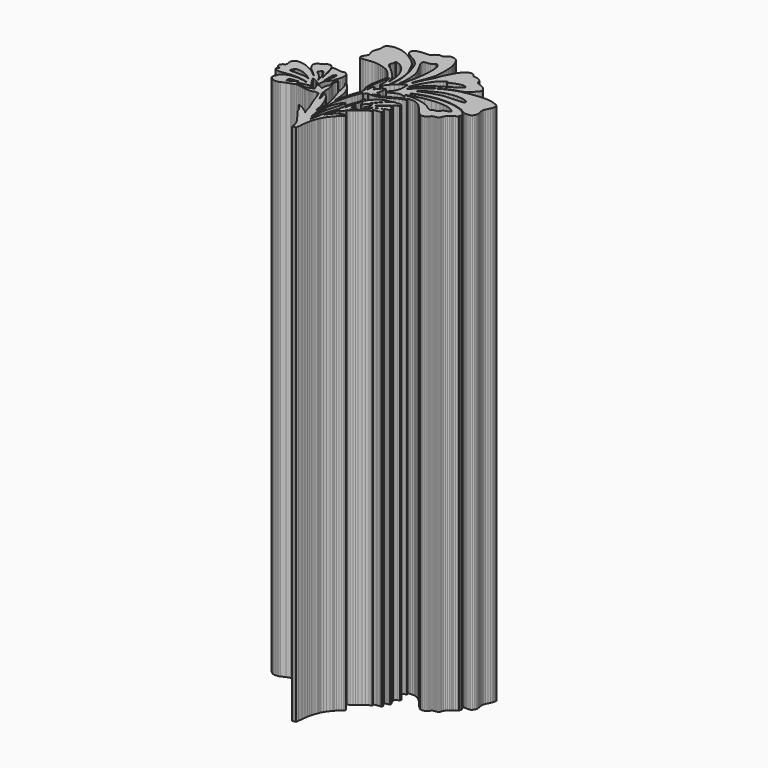
from build123d import *

# Parameters (mm, degrees)
F1_DEPTH = 25


with BuildPart() as f1:
    # F0 (on Top) → F1 (new body)
    with BuildSketch(Plane.XY):
        Polygon((-2.549371, -4.9955), (-2.532291, -5.09013), (-2.518611, -5.19907), (-2.476511, -5.19293), (-2.434251, -5.1867), (-2.391611, -5.18052), (-2.348851, -5.17428), (-2.335551, -5.04445), (-2.315821, -4.85456), (-2.298671, -4.70406), (-2.282501, -4.58421), (-2.265471, -4.48639), (-2.245931, -4.40192), (-2.222071, -4.32217), (-2.192171, -4.2385), (-2.154511, -4.14232), (-2.139871, -4.10559), (-2.124511, -4.06718), (-2.110361, -4.03159), (-2.099071, -4.00343), (-2.055441, -3.9221), (-1.985961, -3.81793), (-1.909671, -3.71767), (-1.845541, -3.6479), (-1.819551, -3.6191), (-1.792321, -3.58122), (-1.747011, -3.52247), (-1.681971, -3.45238), (-1.612731, -3.38672), (-1.555071, -3.34138), (-1.521971, -3.31674), (-1.500601, -3.29342), (-1.491601, -3.27209), (-1.495441, -3.25354), (-1.522901, -3.24436), (-1.576931, -3.24334), (-1.640251, -3.24963), (-1.695481, -3.26249), (-1.811041, -3.31956), (-1.925731, -3.40496), (-2.025661, -3.50646), (-2.096851, -3.61193), (-2.108891, -3.63493), (-2.119901, -3.65463), (-2.128691, -3.66891), (-2.134011, -3.67568), (-2.143401, -3.6861), (-2.154961, -3.70346), (-2.161681, -3.7141), (-2.164721, -3.71627), (-2.164501, -3.70921), (-2.161351, -3.69234), (-2.095221, -3.42856), (-2.013031, -3.22185), (-1.946891, -3.0899), (-1.900661, -3.08367), (-1.859651, -3.07179), (-1.826231, -3.0516), (-1.802251, -3.02204), (-1.777831, -2.98113), (-1.758901, -2.93979), (-1.751191, -2.90903), (-1.737101, -2.89232), (-1.700731, -2.87567), (-1.631831, -2.84332), (-1.548071, -2.79064), (-1.464361, -2.72793), (-1.395511, -2.66532), (-1.287161, -2.5617), (-1.181151, -2.47907), (-1.082901, -2.42118), (-0.998001, -2.39184), (-0.965661, -2.38131), (-0.946181, -2.3652), (-0.941361, -2.34588), (-0.952581, -2.3257), (-0.976181, -2.31311), (-1.013681, -2.31479), (-1.045621, -2.31707), (-1.056601, -2.30996), (-1.051821, -2.29792), (-1.039501, -2.29525), (-1.009391, -2.2881), (-0.966041, -2.27746), (-0.913961, -2.26456), (-0.856891, -2.25153), (-0.800401, -2.24095), (-0.750871, -2.23385), (-0.714531, -2.23124), (-0.671121, -2.22913), (-0.643981, -2.22071), (-0.627761, -2.20264), (-0.617141, -2.17172), (-0.616481, -2.14096), (-0.638461, -2.11302), (-0.659891, -2.08481), (-0.667711, -2.05492), (-0.675351, -2.02524), (-0.695691, -1.99768), (-0.712191, -1.98352), (-0.725751, -1.9775), (-0.741651, -1.97864), (-0.765141, -1.98618), (-0.790041, -1.9967), (-0.827101, -2.01456), (-0.871321, -2.03711), (-0.917711, -2.06207), (-1.006731, -2.11102), (-1.077971, -2.15035), (-1.133731, -2.18127), (-1.176221, -2.20514), (-1.207791, -2.22315), (-1.230641, -2.23672), (-1.247011, -2.24697), (-1.259221, -2.25532), (-1.280931, -2.26743), (-1.289931, -2.26585), (-1.272251, -2.24572), (-1.224071, -2.21197), (-1.153111, -2.16874), (-1.066851, -2.12013), (-0.972931, -2.07032), (-0.878911, -2.02345), (-0.792321, -1.98368), (-0.720821, -1.95509), (-0.678611, -1.9412), (-0.635151, -1.92878), (-0.595711, -1.91906), (-0.565261, -1.91353), (-0.522571, -1.9061), (-0.496101, -1.89563), (-0.482641, -1.88), (-0.478851, -1.85711), (-0.483941, -1.82527), (-0.498261, -1.7951), (-0.520571, -1.76861), (-0.549431, -1.748), (-0.578721, -1.72728), (-0.578071, -1.70759), (-0.567711, -1.67634), (-0.568731, -1.64449), (-0.580791, -1.61384), (-0.603361, -1.58628), (-0.639001, -1.55372), (-0.667261, -1.57938), (-0.742621, -1.64611), (-0.823191, -1.71447), (-0.905221, -1.78153), (-0.984821, -1.84425), (-1.058111, -1.89964), (-1.121211, -1.94478), (-1.170301, -1.97663), (-1.201501, -1.99225), (-1.207471, -1.99236), (-1.203401, -1.98639), (-1.190431, -1.97549), (-1.169601, -1.96057), (-1.137431, -1.93729), (-1.093641, -1.9036), (-1.043941, -1.864), (-0.994101, -1.82303), (-0.887041, -1.73395), (-0.793941, -1.65795), (-0.713821, -1.59414), (-0.645511, -1.54178), (-0.588111, -1.50011), (-0.540421, -1.46827), (-0.501531, -1.44554), (-0.470221, -1.43117), (-0.410211, -1.39622), (-0.389931, -1.35254), (-0.395231, -1.33079), (-0.409831, -1.31143), (-0.431861, -1.29503), (-0.459421, -1.28233), (-0.490671, -1.27383), (-0.523601, -1.27053), (-0.556431, -1.27293), (-0.587191, -1.28173), (-0.632871, -1.29293), (-0.690821, -1.29133), (-0.727051, -1.28863), (-0.756141, -1.29133), (-0.787221, -1.30163), (-0.829481, -1.32129), (-0.870781, -1.34431), (-0.912981, -1.37397), (-0.958071, -1.41222), (-1.007981, -1.46111), (-1.064571, -1.52264), (-1.129891, -1.59875), (-1.205731, -1.69147), (-1.294051, -1.80279), (-1.333871, -1.85325), (-1.367731, -1.89552), (-1.395781, -1.92986), (-1.418251, -1.95656), (-1.435331, -1.97577), (-1.447321, -1.98781), (-1.454321, -1.99291), (-1.456601, -1.99134), (-1.453781, -1.9832), (-1.446031, -1.96892), (-1.434511, -1.95047), (-1.420471, -1.92986), (-1.399901, -1.901), (-1.376581, -1.86877), (-1.351891, -1.83509), (-1.327261, -1.80166), (-1.304101, -1.77052), (-1.283641, -1.74334), (-1.267361, -1.72213), (-1.256621, -1.70867), (-1.244901, -1.69446), (-1.225321, -1.67064), (-1.200641, -1.64042), (-1.173461, -1.60721), (-1.140301, -1.56815), (-1.099011, -1.52214), (-1.054961, -1.47495), (-1.013351, -1.43225), (-0.919711, -1.33882), (-0.987411, -1.34588), (-1.123151, -1.37675), (-1.273281, -1.44088), (-1.316461, -1.46638), (-1.363291, -1.50088), (-1.417541, -1.54738), (-1.482861, -1.60889), (-1.550791, -1.67645), (-1.597281, -1.72788), (-1.629781, -1.77225), (-1.655871, -1.8187), (-1.697111, -1.90061), (-1.729651, -1.85049), (-1.756081, -1.8092), (-1.773981, -1.78045), (-1.787651, -1.7677), (-1.804641, -1.76781), (-1.814291, -1.77464), (-1.819011, -1.78967), (-1.819551, -1.81859), (-1.816511, -1.86703), (-1.813971, -1.9762), (-1.825531, -2.07889), (-1.853731, -2.18849), (-1.901101, -2.31842), (-1.929471, -2.39281), (-1.956221, -2.46936), (-1.978411, -2.53907), (-1.992941, -2.593), (-2.005001, -2.64986), (-2.010211, -2.68886), (-2.009171, -2.71979), (-2.002391, -2.75239), (-1.995181, -2.78409), (-1.994301, -2.80557), (-2.000931, -2.82456), (-2.016111, -2.8487), (-2.030871, -2.87295), (-2.038531, -2.89574), (-2.040641, -2.92466), (-2.038581, -2.96735), (-2.036571, -3.0101), (-2.038731, -3.03924), (-2.046551, -3.06252), (-2.061421, -3.08763), (-2.084531, -3.13174), (-2.100481, -3.17796), (-2.107431, -3.20438), (-2.118161, -3.241), (-2.131291, -3.28306), (-2.145351, -3.3257), (-2.180831, -3.43886), (-2.214621, -3.56272), (-2.243161, -3.68268), (-2.262541, -3.7842), (-2.269801, -3.82928), (-2.278431, -3.88043), (-2.287281, -3.93132), (-2.295301, -3.97566), (-2.314831, -4.08102), (-2.336911, -4.20172), (-2.349121, -4.2651), (-2.358031, -4.30134), (-2.364801, -4.31414), (-2.370611, -4.30731), (-2.376791, -4.271), (-2.382391, -4.20227), (-2.387101, -4.1102), (-2.390731, -4.00381), (-2.393071, -3.89215), (-2.393781, -3.78429), (-2.392691, -3.68935), (-2.389481, -3.61639), (-2.378801, -3.49025), (-2.364581, -3.39432), (-2.341211, -3.29906), (-2.302681, -3.17492), (-2.261831, -3.04043), (-2.226941, -2.91), (-2.200301, -2.79271), (-2.184191, -2.69788), (-2.179101, -2.66857), (-2.170681, -2.63396), (-2.160161, -2.59838), (-2.148711, -2.5662), (-2.133791, -2.52675), (-2.127761, -2.50332), (-2.129941, -2.48906), (-2.139601, -2.47728), (-2.151321, -2.46877), (-2.163851, -2.47093), (-2.182781, -2.48699), (-2.213481, -2.52014), (-2.286141, -2.62338), (-2.354391, -2.76227), (-2.412331, -2.92275), (-2.454051, -3.09084), (-2.463871, -3.15778), (-2.469401, -3.2467), (-2.471511, -3.38304), (-2.471141, -3.59235), (-2.469351, -3.76852), (-2.466151, -3.90615), (-2.461541, -4.00289), (-2.455681, -4.05649), (-2.448301, -4.10379), (-2.449221, -4.12756), (-2.455351, -4.12784), (-2.460461, -4.11893), (-2.474401, -4.06278), (-2.489531, -3.99149), (-2.503151, -3.91891), (-2.512431, -3.859), (-2.523111, -3.78284), (-2.534891, -3.709), (-2.539391, -3.65491), (-2.541891, -3.56278), (-2.542541, -3.44288), (-2.541511, -3.30552), (-2.538851, -3.16093), (-2.534781, -3.01943), (-2.529401, -2.89128), (-2.522851, -2.78679), (-2.499851, -2.59246), (-2.459101, -2.3857), (-2.397411, -2.1522), (-2.311361, -1.87784), (-2.271651, -1.75907), (-2.238721, -1.66386), (-2.211601, -1.58975), (-2.189231, -1.53435), (-2.170581, -1.49541), (-2.154681, -1.47056), (-2.140411, -1.45731), (-2.126791, -1.45346), (-2.096511, -1.44853), (-2.065221, -1.43459), (-2.035161, -1.41299), (-2.008621, -1.38515), (-1.980901, -1.34972), (-1.921391, -1.36671), (-1.853191, -1.37636), (-1.762601, -1.37616), (-1.664121, -1.36677), (-1.572211, -1.34907), (-1.466361, -1.31363), (-1.341041, -1.26013), (-1.218601, -1.19893), (-1.121261, -1.14043), (-1.096731, -1.12543), (-1.051871, -1.10013), (-0.993111, -1.06783), (-0.926821, -1.03243), (-0.808051, -0.97343), (-0.699391, -0.92743), (-0.609371, -0.89743), (-0.546281, -0.88673), (-0.519691, -0.88143), (-0.499851, -0.86863), (-0.493441, -0.85783), (-0.494901, -0.84723), (-0.505911, -0.83333), (-0.528111, -0.81313), (-0.557141, -0.78503), (-0.566141, -0.77043), (-0.553551, -0.76723), (-0.523051, -0.76273), (-0.479331, -0.75753), (-0.426871, -0.75203), (-0.323361, -0.74613), (-0.237731, -0.75303), (-0.155931, -0.77513), (-0.063691, -0.81503), (0.022779, -0.87133), (0.126029, -0.95973), (0.230309, -1.06553), (0.320099, -1.17423), (0.444169, -1.32721), (0.554519, -1.43192), (0.574599, -1.44777), (0.592329, -1.46279), (0.605789, -1.47527), (0.613109, -1.48352), (0.623419, -1.49139), (0.636219, -1.49143), (0.655059, -1.49074), (0.680169, -1.49709), (0.719019, -1.50224), (0.772399, -1.49649), (0.832629, -1.48135), (0.892089, -1.45813), (0.922199, -1.44202), (0.944339, -1.42466), (0.962559, -1.40186), (0.981169, -1.36953), (0.995059, -1.34457), (1.008789, -1.32461), (1.023819, -1.30873), (1.041389, -1.29633), (1.062989, -1.28633), (1.089949, -1.27823), (1.123699, -1.27113), (1.165629, -1.26413), (1.204699, -1.25733), (1.241269, -1.24943), (1.271269, -1.24163), (1.290589, -1.23463), (1.312499, -1.21783), (1.331539, -1.19083), (1.347489, -1.15403), (1.360069, -1.10783), (1.382749, -1.05213), (1.424899, -0.98423), (1.476129, -0.91893), (1.525989, -0.87123), (1.552999, -0.85223), (1.586099, -0.83093), (1.621039, -0.80983), (1.653749, -0.79163), (1.721629, -0.75253), (1.778529, -0.71423), (1.816289, -0.68293), (1.826649, -0.66453), (1.827139, -0.64743), (1.837399, -0.62103), (1.854429, -0.55213), (1.837519, -0.47983), (1.787209, -0.40573), (1.704529, -0.33173), (1.666449, -0.30423), (1.628629, -0.27833), (1.595429, -0.25683), (1.571179, -0.24273), (1.447149, -0.19293), (1.280809, -0.14503), (1.092989, -0.10433), (0.904519, -0.07593), (0.770839, -0.06703), (0.611319, -0.06513), (0.455999, -0.06983), (0.335019, -0.08093), (0.017849, -0.13613), (-0.223261, -0.19343), (-0.312721, -0.22073), (-0.398821, -0.25103), (-0.500711, -0.29153), (-0.637691, -0.34953), (-0.694831, -0.37383), (-0.723421, -0.38403), (-0.733291, -0.38253), (-0.734371, -0.37133), (-0.719571, -0.35613), (-0.671821, -0.33023), (-0.586101, -0.29133), (-0.457531, -0.23683), (-0.300621, -0.18273), (-0.097551, -0.12933), (0.132149, -0.08123), (0.369199, -0.04303), (0.478829, -0.03453), (0.622239, -0.03163), (0.770949, -0.03443), (0.896579, -0.04283), (1.134969, -0.07843), (1.354319, -0.13003), (1.536129, -0.19243), (1.662109, -0.26023), (1.690319, -0.27903), (1.708599, -0.28683), (1.717449, -0.28963), (1.733389, -0.29733), (1.754219, -0.30873), (1.777609, -0.32283), (1.796599, -0.33433), (1.812819, -0.34313), (1.828129, -0.34953), (1.844459, -0.35393), (1.863769, -0.35663), (1.887959, -0.35813), (1.919059, -0.35873), (1.958929, -0.35893), (2.056699, -0.35503), (2.122819, -0.33883), (2.171929, -0.30403), (2.218419, -0.24413), (2.250809, -0.18693), (2.264919, -0.13173), (2.262039, -0.06413), (2.243379, 0.02987), (2.234749, 0.07347), (2.227699, 0.12167), (2.222929, 0.16857), (2.221179, 0.20847), (2.222769, 0.25917), (2.232899, 0.30447), (2.259379, 0.36767), (2.310169, 0.47187), (2.353399, 0.56207), (2.382919, 0.63067), (2.401589, 0.68467), (2.412209, 0.73147), (2.418519, 0.77447), (2.419859, 0.80247), (2.415849, 0.82207), (2.406139, 0.84007), (2.365779, 0.88207), (2.303329, 0.92157), (2.222379, 0.95747), (2.126249, 0.98887), (2.018499, 1.01477), (1.902559, 1.03417), (1.781899, 1.04617), (1.660039, 1.04977), (1.562649, 1.04657), (1.450849, 1.03877), (1.330129, 1.02707), (1.205999, 1.01227), (1.083989, 0.99507), (0.969609, 0.97627), (0.868379, 0.95637), (0.785859, 0.93617), (0.756609, 0.92857), (0.731929, 0.92297), (0.714399, 0.92007), (0.706649, 0.92037), (0.690099, 0.92087), (0.653039, 0.91347), (0.599649, 0.89947), (0.534069, 0.88007), (0.460449, 0.85657), (0.382809, 0.83027), (0.305389, 0.80237), (0.232309, 0.77417), (0.064829, 0.70017), (-0.103411, 0.61237), (-0.270031, 0.51287), (-0.432461, 0.40327), (-0.588221, 0.28527), (-0.734861, 0.16077), (-0.869901, 0.03157), (-0.990781, -0.10063), (-1.027181, -0.14273), (-1.058111, -0.17713), (-1.080401, -0.20043), (-1.090721, -0.20903), (-1.098101, -0.20453), (-1.104441, -0.19393), (-1.100581, -0.18123), (-1.085181, -0.15813), (-1.060331, -0.12723), (-1.027941, -0.09113), (-0.995981, -0.05663), (-0.969791, -0.02733), (-0.952041, -0.00653), (-0.945531, 0.00277), (-0.931861, 0.01897), (-0.895031, 0.05487), (-0.841641, 0.10477), (-0.778051, 0.16277), (-0.710721, 0.22317), (-0.646221, 0.27997), (-0.590821, 0.32747), (-0.551051, 0.35977), (-0.370721, 0.48727), (-0.173121, 0.60887), (0.029669, 0.71767), (0.225809, 0.80687), (0.316829, 0.84307), (0.398969, 0.87237), (0.491809, 0.90157), (0.614959, 0.93707), (0.643819, 0.94537), (0.666179, 0.95207), (0.683859, 0.95827), (0.698889, 0.96487), (0.713269, 0.97307), (0.728949, 0.98367), (0.747879, 0.99777), (0.772129, 1.01627), (0.800609, 1.03807), (0.837889, 1.06597), (0.879069, 1.09677), (0.919429, 1.12667), (0.993919, 1.18797), (1.069449, 1.26067), (1.135959, 1.33447), (1.183639, 1.39917), (1.203069, 1.44137), (1.208769, 1.48297), (1.200569, 1.52547), (1.178489, 1.56977), (1.119139, 1.64997), (1.050179, 1.70967), (0.955999, 1.75887), (0.821289, 1.80807), (0.747449, 1.83667), (0.699429, 1.86697), (0.673449, 1.90237), (0.665629, 1.94617), (0.660429, 1.99317), (0.642739, 2.03137), (0.609429, 2.06557), (0.557239, 2.10017), (0.496789, 2.13277), (0.445099, 2.15367), (0.390399, 2.16637), (0.321179, 2.17467), (0.237849, 2.18217), (0.204529, 2.23377), (0.148269, 2.29277), (0.075949, 2.32727), (-0.004351, 2.33517), (-0.084371, 2.31397), (-0.145681, 2.27447), (-0.224551, 2.20977), (-0.305011, 2.13377), (-0.371101, 2.06077), (-0.401971, 2.01547), (-0.445801, 1.94197), (-0.497831, 1.84937), (-0.553221, 1.74687), (-0.607151, 1.64347), (-0.654851, 1.54817), (-0.691411, 1.47027), (-0.712031, 1.41877), (-0.754551, 1.29857), (-0.808541, 1.17007), (-0.869961, 1.04227), (-0.934681, 0.92427), (-0.956931, 0.88597), (-0.976181, 0.85137), (-0.990401, 0.82427), (-0.997571, 0.80857), (-1.004551, 0.79167), (-1.018291, 0.76147), (-1.036791, 0.72207), (-1.058111, 0.67787), (-1.081221, 0.62877), (-1.104441, 0.57597), (-1.125111, 0.52597), (-1.140511, 0.48477), (-1.160761, 0.42847), (-1.178931, 0.38187), (-1.194981, 0.34547), (-1.208551, 0.31957), (-1.219571, 0.30467), (-1.227651, 0.30097), (-1.232691, 0.30887), (-1.234371, 0.32877), (-1.220161, 0.39397), (-1.185011, 0.50147), (-1.140141, 0.61967), (-1.096901, 0.71667), (-1.059621, 0.79847), (-1.020571, 0.90347), (-0.976181, 1.04207), (-0.922901, 1.22437), (-0.898761, 1.31447), (-0.883301, 1.38837), (-0.873371, 1.46507), (-0.865721, 1.56317), (-0.860571, 1.67757), (-0.858781, 1.80227), (-0.859971, 1.93007), (-0.863931, 2.05377), (-0.870281, 2.16607), (-0.878751, 2.25997), (-0.889001, 2.32807), (-0.900661, 2.36327), (-0.907231, 2.37807), (-0.918851, 2.41027), (-0.933871, 2.45497), (-0.950581, 2.50767), (-0.983351, 2.60197), (-1.018891, 2.68057), (-1.059851, 2.74877), (-1.109001, 2.81167), (-1.134551, 2.83857), (-1.159291, 2.85567), (-1.193041, 2.86807), (-1.245611, 2.88037), (-1.348531, 2.89907), (-1.421281, 2.89637), (-1.487411, 2.86697), (-1.570641, 2.80527), (-1.637601, 2.75537), (-1.688691, 2.72777), (-1.733181, 2.71877), (-1.780281, 2.72467), (-1.810761, 2.73097), (-1.833331, 2.73167), (-1.854711, 2.72597), (-1.881621, 2.71317), (-1.927471, 2.68567), (-1.976731, 2.64927), (-2.026481, 2.60657), (-2.073791, 2.55947), (-2.118871, 2.51127), (-2.284941, 2.50787), (-2.438321, 2.49967), (-2.562181, 2.48027), (-2.652721, 2.45817), (-2.728791, 2.43557), (-2.779961, 2.41577), (-2.795621, 2.40237), (-2.800081, 2.38597), (-2.817651, 2.35777), (-2.838871, 2.31877), (-2.851181, 2.27407), (-2.853681, 2.22947), (-2.845371, 2.19077), (-2.801111, 2.13377), (-2.716321, 2.06127), (-2.606781, 1.98547), (-2.488391, 1.91827), (-2.451391, 1.89887), (-2.411081, 1.87627), (-2.372351, 1.85327), (-2.339961, 1.83267), (-2.309251, 1.80967), (-2.271541, 1.77807), (-2.230251, 1.74107), (-2.188861, 1.70207), (-2.150721, 1.66427), (-2.119251, 1.63097), (-2.097871, 1.60567), (-2.089961, 1.59127), (-2.081221, 1.56907), (-2.060111, 1.53247), (-2.009071, 1.42927), (-1.952211, 1.27777), (-1.896541, 1.09897), (-1.849181, 0.91327), (-1.800401, 0.67577), (-1.767641, 0.46987), (-1.750711, 0.29397), (-1.749351, 0.14657), (-1.757821, 0.03867), (-1.771541, -0.06603), (-1.788581, -0.15433), (-1.806801, -0.21353), (-1.814511, -0.22983), (-1.818471, -0.23623), (-1.819181, -0.23283), (-1.817051, -0.22013), (-1.805941, -0.14423), (-1.795961, -0.04403), (-1.787931, 0.07277), (-1.782391, 0.19787), (-1.788141, 0.45737), (-1.823511, 0.69657), (-1.846901, 0.80017), (-1.866861, 0.87647), (-1.886671, 0.93647), (-1.909401, 0.99097), (-2.000441, 1.18827), (-2.068151, 1.32897), (-2.117941, 1.42417), (-2.155171, 1.48467), (-2.206931, 1.55247), (-2.265901, 1.62127), (-2.319891, 1.67757), (-2.356611, 1.70787), (-2.371971, 1.71737), (-2.393181, 1.73237), (-2.417481, 1.75087), (-2.442051, 1.77067), (-2.468601, 1.79197), (-2.498111, 1.81447), (-2.527031, 1.83537), (-2.551711, 1.85207), (-2.579921, 1.87017), (-2.618221, 1.89487), (-2.661681, 1.92287), (-2.705141, 1.95087), (-2.917151, 2.06707), (-3.126851, 2.14287), (-3.249791, 2.16607), (-3.387211, 2.17807), (-3.518661, 2.17807), (-3.623541, 2.16497), (-3.693851, 2.14257), (-3.761011, 2.11057), (-3.817011, 2.07357), (-3.853681, 2.03617), (-3.867461, 2.01207), (-3.874681, 1.98297), (-3.877121, 1.93627), (-3.876301, 1.85867), (-3.875541, 1.77977), (-3.878321, 1.73107), (-3.886781, 1.69717), (-3.902941, 1.66287), (-3.953231, 1.54207), (-3.975801, 1.42697), (-3.970331, 1.32297), (-3.936361, 1.23527), (-3.903261, 1.16787), (-3.899641, 1.10567), (-3.928611, 1.03257), (-3.993111, 0.93237), (-4.022851, 0.88287), (-4.039501, 0.83747), (-4.043191, 0.79567), (-4.034071, 0.75697), (-4.022421, 0.73557), (-4.005481, 0.71967), (-3.980421, 0.70927), (-3.944231, 0.70387), (-3.894041, 0.70347), (-3.826871, 0.70777), (-3.739801, 0.71667), (-3.629941, 0.72987), (-3.461101, 0.74897), (-3.337791, 0.75617), (-3.237411, 0.75187), (-3.137541, 0.73627), (-3.019211, 0.70907), (-2.894431, 0.67357), (-2.781141, 0.63547), (-2.697261, 0.60027), (-2.634611, 0.56477), (-2.576281, 0.52097), (-2.510861, 0.45927), (-2.426871, 0.36987), (-2.330621, 0.26067), (-2.267801, 0.18007), (-2.233681, 0.12127), (-2.223301, 0.07707), (-2.225861, 0.03617), (-2.232971, -0.02443), (-2.244041, -0.10093), (-2.258411, -0.18953), (-2.275391, -0.28623), (-2.294431, -0.38723), (-2.314781, -0.48873), (-2.335781, -0.58673), (-2.347661, -0.64703), (-2.354051, -0.70243), (-2.355851, -0.76673), (-2.353961, -0.85343), (-2.347071, -0.96863), (-2.333721, -1.05053), (-2.311421, -1.10883), (-2.277781, -1.15283), (-2.259931, -1.17203), (-2.251681, -1.18863), (-2.251361, -1.21003), (-2.257051, -1.24413), (-2.264651, -1.30233), (-2.266821, -1.359), (-2.272681, -1.41711), (-2.295621, -1.48124), (-2.333221, -1.57353), (-2.373151, -1.68778), (-2.409291, -1.80497), (-2.435391, -1.90627), (-2.445861, -1.95124), (-2.457681, -1.99763), (-2.469511, -2.04), (-2.479821, -2.07293), (-2.504401, -2.15974), (-2.533371, -2.28235), (-2.559251, -2.40718), (-2.574541, -2.50067), (-2.582191, -2.54347), (-2.590871, -2.56272), (-2.598101, -2.55622), (-2.601031, -2.52188), (-2.606721, -2.42096), (-2.620821, -2.27572), (-2.638891, -2.12647), (-2.656531, -2.01357), (-2.708931, -1.80904), (-2.781041, -1.62903), (-2.873651, -1.47196), (-2.987531, -1.33617), (-3.024641, -1.30263), (-3.061791, -1.27553), (-3.096081, -1.25553), (-3.124511, -1.24363), (-3.144151, -1.24083), (-3.152121, -1.24793), (-3.145461, -1.26573), (-3.121211, -1.29533), (-3.061581, -1.37143), (-3.016111, -1.46425), (-2.980581, -1.58497), (-2.950791, -1.74464), (-2.940601, -1.80697), (-2.929691, -1.86406), (-2.917051, -1.9195), (-2.901691, -1.97695), (-2.882481, -2.04016), (-2.858401, -2.11275), (-2.828351, -2.19847), (-2.791291, -2.30096), (-2.712621, -2.54016), (-2.656301, -2.76688), (-2.646001, -2.83102), (-2.639971, -2.91678), (-2.637151, -3.04982), (-2.636461, -3.25582), (-2.637151, -3.43197), (-2.639051, -3.54379), (-2.642361, -3.59577), (-2.647191, -3.59235), (-2.676331, -3.44836), (-2.707791, -3.30703), (-2.736001, -3.19239), (-2.755321, -3.12854), (-2.765511, -3.10266), (-2.778371, -3.06734), (-2.792261, -3.02714), (-2.805501, -2.98678), (-2.866481, -2.82884), (-2.944931, -2.67829), (-3.035051, -2.54488), (-3.130971, -2.43838), (-3.164871, -2.41017), (-3.192281, -2.39384), (-3.212681, -2.38885), (-3.225751, -2.39471), (-3.231071, -2.41093), (-3.228141, -2.43692), (-3.216641, -2.47224), (-3.196031, -2.51639), (-3.168031, -2.58042), (-3.145031, -2.65263), (-3.129401, -2.72435), (-3.123481, -2.78679), (-3.124191, -2.80692), (-3.128211, -2.8099), (-3.138461, -2.79292), (-3.157661, -2.75343), (-3.172691, -2.72099), (-3.188151, -2.6861), (-3.202321, -2.65289), (-3.213281, -2.62567), (-3.225861, -2.59707), (-3.244191, -2.56039), (-3.265961, -2.52035), (-3.288581, -2.48161), (-3.316681, -2.43393), (-3.331651, -2.40246), (-3.336101, -2.38), (-3.332621, -2.35939), (-3.327971, -2.32596), (-3.329711, -2.28609), (-3.337031, -2.2466), (-3.349181, -2.21459), (-3.353851, -2.19853), (-3.357041, -2.17167), (-3.358681, -2.13706), (-3.358351, -2.09789), (-3.372891, -1.91965), (-3.431801, -1.725), (-3.475751, -1.59377), (-3.496371, -1.48499), (-3.493501, -1.39959), (-3.467121, -1.33861), (-3.450901, -1.31203), (-3.446891, -1.28933), (-3.455141, -1.27073), (-3.475581, -1.25623), (-3.505971, -1.24553), (-3.534781, -1.24383), (-3.566251, -1.25173), (-3.604611, -1.26963), (-3.655871, -1.29693), (-3.627181, -1.23353), (-3.577531, -1.11613), (-3.545681, -1.01923), (-3.528711, -0.93183), (-3.523551, -0.84233), (-3.526751, -0.76713), (-3.538141, -0.71043), (-3.559901, -0.66553), (-3.594231, -0.62543), (-3.647731, -0.58393), (-3.701121, -0.56313), (-3.755431, -0.56293), (-3.811851, -0.58303), (-3.824541, -0.58933), (-3.836371, -0.59363), (-3.849181, -0.59603), (-3.864751, -0.59633), (-3.885101, -0.59443), (-3.911941, -0.59033), (-3.947171, -0.58393), (-3.992681, -0.57523), (-4.103081, -0.55913), (-4.202211, -0.55573), (-4.255431, -0.55803), (-4.283041, -0.56223), (-4.293291, -0.57083), (-4.294281, -0.58673), (-4.289821, -0.61143), (-4.278431, -0.65813), (-4.261941, -0.72023), (-4.241921, -0.79093), (-4.219351, -0.87293), (-4.195581, -0.96593), (-4.173611, -1.05853), (-4.156101, -1.13923), (-4.141441, -1.20953), (-4.127071, -1.27373), (-4.114641, -1.32493), (-4.105751, -1.35592), (-4.095161, -1.38652), (-4.091041, -1.40229), (-4.092891, -1.40815), (-4.100151, -1.40903), (-4.114041, -1.39199), (-4.131731, -1.34099), (-4.153321, -1.25593), (-4.178821, -1.13673), (-4.216151, -0.97163), (-4.260641, -0.80303), (-4.303501, -0.66193), (-4.336051, -0.57933), (-4.381511, -0.51303), (-4.431601, -0.46603), (-4.486651, -0.43793), (-4.546981, -0.42863), (-4.592351, -0.43373), (-4.633031, -0.44873), (-4.667801, -0.47293), (-4.695481, -0.50563), (-4.723471, -0.53453), (-4.762151, -0.55343), (-4.824051, -0.57733), (-4.890621, -0.61143), (-4.949761, -0.64863), (-4.989431, -0.68233), (-5.034121, -0.76853), (-5.030981, -0.86933), (-4.980421, -0.98313), (-4.882931, -1.10813), (-4.848691, -1.14243), (-4.809301, -1.17823), (-4.769581, -1.21103), (-4.734481, -1.23673), (-4.695861, -1.26473), (-4.650831, -1.30103), (-4.602911, -1.34224), (-4.555781, -1.38515), (-4.512861, -1.42634), (-4.477821, -1.46252), (-4.454151, -1.4904), (-4.445481, -1.50657), (-4.453231, -1.50609), (-4.474671, -1.49079), (-4.507281, -1.46279), (-4.548291, -1.42417), (-4.654901, -1.33074), (-4.775351, -1.24313), (-4.905221, -1.16333), (-5.040261, -1.09353), (-5.176111, -1.03563), (-5.308481, -0.99163), (-5.433051, -0.96363), (-5.545471, -0.95373), (-5.640361, -0.96113), (-5.719241, -0.98313), (-5.779621, -1.01873), (-5.818851, -1.06683), (-5.835341, -1.11573), (-5.843101, -1.17603), (-5.841531, -1.23843), (-5.830241, -1.29323), (-5.819341, -1.32797), (-5.813371, -1.35652), (-5.813101, -1.38049), (-5.819341, -1.4016), (-5.833011, -1.4215), (-5.854821, -1.44185), (-5.885641, -1.46436), (-5.926219, -1.49079), (-6.002716, -1.563), (-6.01986, -1.64025), (-5.978844, -1.71464), (-5.880971, -1.77834), (-5.831981, -1.79997), (-5.865781, -1.8206), (-5.904621, -1.8557), (-5.923126, -1.89764), (-5.919981, -1.93957), (-5.893991, -1.97489), (-5.818361, -2.01271), (-5.714901, -2.0292), (-5.583551, -2.02432), (-5.424261, -1.99811), (-5.140301, -1.95921), (-4.834371, -1.96285), (-4.752611, -1.97056), (-4.667711, -1.98161), (-4.583981, -1.99513), (-4.505751, -2.01015), (-4.437391, -2.02578), (-4.383191, -2.04114), (-4.347441, -2.05524), (-4.334471, -2.06734), (-4.339731, -2.07374), (-4.353141, -2.07527), (-4.371321, -2.072), (-4.390621, -2.0642), (-4.408861, -2.05746), (-4.442501, -2.04775), (-4.486871, -2.03625), (-4.537111, -2.02432), (-4.828181, -1.99268), (-5.120391, -2.02416), (-5.261551, -2.06409), (-5.384981, -2.11421), (-5.478461, -2.16868), (-5.529571, -2.22153), (-5.540801, -2.25153), (-5.545471, -2.2805), (-5.548181, -2.2965), (-5.555401, -2.31924), (-5.566141, -2.34571), (-5.579161, -2.37289), (-5.605311, -2.43593), (-5.615241, -2.49675), (-5.617731, -2.55638), (-5.545791, -2.62154), (-5.487471, -2.66965), (-5.435501, -2.69777), (-5.376081, -2.71095), (-5.295471, -2.71436), (-5.237411, -2.71339), (-5.195481, -2.70764), (-5.153601, -2.69321), (-5.095481, -2.66624), (-4.916291, -2.58671), (-4.742851, -2.52627), (-4.704801, -2.514), (-4.672751, -2.5025), (-4.650011, -2.49302), (-4.640031, -2.48693), (-4.617081, -2.47452), (-4.570261, -2.45861), (-4.509281, -2.44695), (-4.434851, -2.44754), (-4.331871, -2.4616), (-4.185111, -2.4904), (-4.094731, -2.5082), (-4.022081, -2.51895), (-3.952971, -2.52427), (-3.873261, -2.52567), (-3.827211, -2.52552), (-3.790961, -2.52492), (-3.762321, -2.52345), (-3.739101, -2.52085), (-3.719141, -2.51667), (-3.700141, -2.5107), (-3.680071, -2.50245), (-3.656581, -2.49171), (-3.617461, -2.47413), (-3.591861, -2.46589), (-3.573621, -2.46556), (-3.556601, -2.47213), (-3.523651, -2.48227), (-3.483351, -2.48661), (-3.458821, -2.48807), (-3.438321, -2.49415), (-3.420031, -2.50771), (-3.402351, -2.53164), (-3.383571, -2.56864), (-3.361981, -2.6216), (-3.335831, -2.69336), (-3.303501, -2.78679), (-3.275661, -2.86568), (-3.242031, -2.95715), (-3.204481, -3.05638), (-3.164931, -3.15854), (-3.125281, -3.2587), (-3.087401, -3.35206), (-3.053221, -3.43377), (-3.024581, -3.49903), (-3.009331, -3.53577), (-2.992401, -3.5815), (-2.975971, -3.63049), (-2.961921, -3.67682), (-2.909121, -3.85017), (-2.866161, -3.9565), (-2.852221, -3.98895), (-2.849781, -4.00586), (-2.855691, -4.00452), (-2.867251, -3.99654), (-2.882931, -3.98325), (-2.900981, -3.96595), (-2.919761, -3.94809), (-2.937291, -3.93354), (-2.951661, -3.92368), (-2.960891, -3.9201), (-2.977371, -3.91304), (-2.996531, -3.89622), (-3.011721, -3.88185), (-3.034071, -3.86427), (-3.061641, -3.84479), (-3.092551, -3.8245), (-3.124891, -3.8047), (-3.156731, -3.78657), (-3.186211, -3.77128), (-3.211261, -3.76015), (-3.259761, -3.73672), (-3.307291, -3.70731), (-3.342941, -3.68604), (-3.370781, -3.67867), (-3.389761, -3.68507), (-3.398931, -3.70536), (-3.390851, -3.73135), (-3.354501, -3.76254), (-3.258851, -3.84724), (-3.196071, -3.94543), (-3.185071, -3.97142), (-3.176001, -3.99475), (-3.169821, -4.01286), (-3.167481, -4.02322), (-3.164661, -4.04146), (-3.155931, -4.06452), (-3.139821, -4.09436), (-3.115071, -4.13299), (-3.080301, -4.18246), (-3.034121, -4.24475), (-2.975211, -4.32189), (-2.902121, -4.41592), (-2.788581, -4.56354), (-2.707361, -4.67471), (-2.653481, -4.75652), (-2.622011, -4.8162), (-2.597821, -4.87056), (-2.572321, -4.92568), align=None)
        Polygon((-4.867621, -2.3705), (-4.919761, -2.39622), (-4.969231, -2.41359), (-5.005921, -2.42015), (-5.026801, -2.41592), (-5.028761, -2.40067), (-5.018661, -2.37268), (-5.015851, -2.35266), (-5.020511, -2.33692), (-5.032781, -2.32168), (-5.055501, -2.299), (-5.019911, -2.27714), (-4.903761, -2.23596), (-4.723261, -2.21431), (-4.595481, -2.20731), (-4.689681, -2.25967), (-4.729391, -2.28235), (-4.767751, -2.30546), (-4.800401, -2.32629), (-4.823031, -2.34218), align=None, mode=Mode.SUBTRACT)
        Polygon((-3.997781, -2.38239), (-4.053121, -2.4024), (-4.076441, -2.4094), (-4.095651, -2.41429), (-4.113181, -2.41711), (-4.131291, -2.41765), (-4.152401, -2.41597), (-4.178761, -2.41196), (-4.212731, -2.4055), (-4.256621, -2.39665), (-4.350321, -2.38282), (-4.455731, -2.37485), (-4.550571, -2.37377), (-4.612301, -2.3806), (-4.622781, -2.38157), (-4.619731, -2.37528), (-4.606071, -2.36356), (-4.584411, -2.34821), (-4.557681, -2.33117), (-4.528541, -2.31425), (-4.499851, -2.29928), (-4.474291, -2.28821), (-4.438751, -2.27763), (-4.383791, -2.2645), (-4.316851, -2.2505), (-4.245501, -2.23727), (-4.176711, -2.22527), (-4.116711, -2.21475), (-4.071941, -2.20677), (-4.048781, -2.2026), (-4.041511, -2.20059), (-4.037111, -2.19734), (-4.036031, -2.19179), (-4.038641, -2.18306), (-4.045471, -2.16999), (-4.056911, -2.15166), (-4.073401, -2.12702), (-4.095331, -2.09506), (-4.126581, -2.04857), (-4.159231, -1.998), (-4.189401, -1.94945), (-4.213161, -1.90903), (-4.234651, -1.87115), (-4.258571, -1.82977), (-4.282011, -1.78978), (-4.302031, -1.75625), (-4.324501, -1.71822), (-4.334211, -1.69734), (-4.332581, -1.6886), (-4.320971, -1.68681), (-4.281301, -1.69424), (-4.226571, -1.71236), (-4.173551, -1.73488), (-4.139111, -1.75538), (-4.120781, -1.76781), (-4.109051, -1.76889), (-4.101681, -1.76911), (-4.087401, -1.77589), (-4.068251, -1.78777), (-4.046011, -1.80339), (-4.022571, -1.82146), (-3.999731, -1.8405), (-3.979391, -1.85922), (-3.963391, -1.87625), (-3.943101, -1.89617), (-3.924051, -1.90696), (-3.907931, -1.90815), (-3.896281, -1.89916), (-3.891611, -1.87631), (-3.888731, -1.83529), (-3.883251, -1.76981), (-3.871581, -1.6976), (-3.856391, -1.63228), (-3.840281, -1.58742), (-3.828891, -1.56913), (-3.809961, -1.54325), (-3.785801, -1.51227), (-3.758571, -1.4789), (-3.730471, -1.4457), (-3.703571, -1.41532), (-3.680181, -1.39036), (-3.662331, -1.37349), (-3.648441, -1.36296), (-3.629891, -1.35077), (-3.608681, -1.3379), (-3.586601, -1.32536), (-3.565651, -1.31425), (-3.547751, -1.30563), (-3.534781, -1.30053), (-3.528601, -1.29993), (-3.530651, -1.31756), (-3.541611, -1.3539), (-3.553071, -1.41803), (-3.553331, -1.50207), (-3.543351, -1.59089), (-3.523931, -1.66934), (-3.511291, -1.70715), (-3.506791, -1.72939), (-3.510301, -1.74382), (-3.521541, -1.7582), (-3.538301, -1.77822), (-3.549481, -1.79422), (-3.563371, -1.84696), (-3.579651, -1.94017), (-3.591901, -2.03229), (-3.593751, -2.08171), (-3.592551, -2.08979), (-3.598851, -2.09078), (-3.614431, -2.08427), (-3.640961, -2.06978), (-3.690761, -2.0395), (-3.733781, -2.01053), (-3.778111, -1.9877), (-3.836541, -1.97766), (-3.880601, -1.97734), (-3.900181, -1.98704), (-3.897141, -2.01049), (-3.873371, -2.05128), (-3.848641, -2.09843), (-3.827861, -2.15322), (-3.807461, -2.20715), (-3.783471, -2.25245), (-3.767151, -2.28202), (-3.765081, -2.29824), (-3.788851, -2.3072), (-3.834371, -2.31941), (-3.892251, -2.33703), (-3.945481, -2.35928), align=None, mode=Mode.SUBTRACT)
        Polygon((-4.474231, -1.78707), (-4.467721, -1.79368), (-4.470481, -1.7965), (-4.481501, -1.79493), (-4.505101, -1.78782), (-4.545471, -1.77421), (-4.596361, -1.75765), (-4.644151, -1.74475), (-4.692931, -1.73509), (-4.746691, -1.72831), (-4.809511, -1.72397), (-4.885361, -1.7217), (-4.978301, -1.72114), (-5.092351, -1.72196), (-5.237531, -1.72272), (-5.338931, -1.72153), (-5.399961, -1.71827), (-5.423891, -1.71285), (-5.428171, -1.70417), (-5.427081, -1.69114), (-5.420361, -1.67232), (-5.407551, -1.6465), (-5.387261, -1.59756), (-5.378801, -1.55572), (-5.377391, -1.53588), (-5.371581, -1.52231), (-5.358941, -1.51184), (-5.337141, -1.50142), (-5.313541, -1.49421), (-5.280001, -1.48759), (-5.241051, -1.48221), (-5.201071, -1.4789), (-5.077431, -1.48596), (-4.942011, -1.51699), (-4.805551, -1.56881), (-4.678821, -1.63809), (-4.651531, -1.65642), (-4.619041, -1.67904), (-4.584101, -1.704), (-4.549431, -1.72928), (-4.517751, -1.75289), (-4.491801, -1.77285), align=None, mode=Mode.SUBTRACT)
        Polygon((-4.164871, -1.41689), (-4.128691, -1.54613), (-4.121971, -1.58454), (-4.117031, -1.61665), (-4.114471, -1.63911), (-4.114641, -1.6485), (-4.118981, -1.64465), (-4.127661, -1.6312), (-4.139431, -1.61014), (-4.153001, -1.58367), (-4.205301, -1.49561), (-4.272571, -1.4092), (-4.348901, -1.33134), (-4.428161, -1.26893), (-4.480361, -1.23133), (-4.516931, -1.19833), (-4.538471, -1.16923), (-4.545471, -1.14343), (-4.536511, -1.12703), (-4.514931, -1.10013), (-4.485791, -1.06593), (-4.458551, -1.03183), (-4.434681, -1.00723), (-4.411571, -0.99983), (-4.387001, -1.00943), (-4.358461, -1.03633), (-4.292431, -1.13393), (-4.223691, -1.27013), align=None, mode=Mode.SUBTRACT)
        Polygon((-3.827471, -1.38559), (-3.847221, -1.47011), (-3.862851, -1.52095), (-3.874401, -1.54922), (-3.884501, -1.55931), (-3.895571, -1.55578), (-3.903481, -1.51895), (-3.910171, -1.42861), (-3.914931, -1.29713), (-3.917151, -1.13673), (-3.917711, -1.01453), (-3.887801, -1.01113), (-3.872181, -1.00783), (-3.862581, -1.00093), (-3.857321, -0.98803), (-3.854441, -0.96663), (-3.847281, -0.93403), (-3.829151, -0.92573), (-3.806211, -0.93423), (-3.790641, -0.95973), (-3.782721, -1.00143), (-3.782551, -1.05903), (-3.792051, -1.16063), (-3.808051, -1.27593), align=None, mode=Mode.SUBTRACT)
        Polygon((-1.563321, -2.73107), (-1.607261, -2.76243), (-1.657981, -2.79445), (-1.690221, -2.813), (-1.707191, -2.81978), (-1.712141, -2.81642), (-1.708221, -2.81213), (-1.697541, -2.80329), (-1.681691, -2.79114), (-1.662331, -2.77697), (-1.643231, -2.76021), (-1.621321, -2.73639), (-1.598211, -2.70775), (-1.575641, -2.67677), (-1.555231, -2.64574), (-1.538581, -2.61709), (-1.527401, -2.59317), (-1.523281, -2.5764), (-1.529791, -2.56956), (-1.547261, -2.56804), (-1.572651, -2.57109), (-1.602921, -2.57786), (-1.635151, -2.58752), (-1.666181, -2.5994), (-1.693101, -2.61259), (-1.712851, -2.62631), (-1.723261, -2.6325), (-1.731121, -2.62479), (-1.739151, -2.59761), (-1.749791, -2.54531), (-1.756571, -2.50424), (-1.760961, -2.46561), (-1.762601, -2.4335), (-1.761181, -2.41179), (-1.759011, -2.38613), (-1.764221, -2.37567), (-1.773931, -2.38461), (-1.792601, -2.40909), (-1.817551, -2.44532), (-1.846141, -2.48954), (-1.917711, -2.60347), (-1.917211, -2.6886), (-1.917541, -2.73107), (-1.919431, -2.75424), (-1.923671, -2.76129), (-1.930721, -2.75528), (-1.945211, -2.70465), (-1.935171, -2.6197), (-1.899901, -2.49654), (-1.838391, -2.33139), (-1.798011, -2.22771), (-1.775351, -2.15909), (-1.764431, -2.10325), (-1.759281, -2.03804), (-1.755601, -1.97993), (-1.751621, -1.9495), (-1.746041, -1.94109), (-1.737361, -1.94902), (-1.707581, -1.99334), (-1.683161, -2.0387), (-1.665321, -2.08285), (-1.655111, -2.12338), (-1.645831, -2.16592), (-1.635861, -2.18974), (-1.618651, -2.19646), (-1.597331, -2.18886), (-1.574171, -2.16831), (-1.551331, -2.13629), (-1.516171, -2.09099), (-1.466641, -2.04667), (-1.409831, -2.00864), (-1.352651, -1.98232), (-1.313151, -1.96979), (-1.291611, -1.96459), (-1.289821, -1.99584), (-1.297321, -2.06782), (-1.309901, -2.14779), (-1.323191, -2.2032), (-1.337941, -2.23406), (-1.356891, -2.26493), (-1.371911, -2.28984), (-1.377821, -2.31034), (-1.374731, -2.32732), (-1.362691, -2.34192), (-1.351891, -2.34761), (-1.336751, -2.34875), (-1.314571, -2.34517), (-1.282551, -2.33671), (-1.220541, -2.32439), (-1.162481, -2.32516), (-1.115291, -2.33291), (-1.091641, -2.34186), (-1.090981, -2.35234), (-1.112791, -2.36481), (-1.165641, -2.39389), (-1.233181, -2.44293), (-1.312551, -2.50967), (-1.401041, -2.59181), (-1.453461, -2.6402), (-1.509761, -2.68849), align=None, mode=Mode.SUBTRACT)
        Polygon((-1.990671, 0.39027), (-1.962941, 0.12437), (-1.961051, 0.05877), (-1.960891, -0.00083), (-1.962401, -0.04783), (-1.965391, -0.07573), (-1.974551, -0.11453), (-1.982481, -0.07573), (-1.999511, -0.01003), (-2.026691, 0.07967), (-2.055121, 0.16517), (-2.075901, 0.21877), (-2.097281, 0.25257), (-2.125871, 0.28687), (-2.154031, 0.31357), (-2.173891, 0.32427), (-2.182231, 0.32937), (-2.195481, 0.34307), (-2.211651, 0.36347), (-2.229051, 0.38827), (-2.256621, 0.42417), (-2.298351, 0.47187), (-2.350041, 0.52687), (-2.407551, 0.58527), (-2.466531, 0.64267), (-2.522851, 0.69497), (-2.572211, 0.73787), (-2.610461, 0.76727), (-2.636941, 0.78527), (-2.664931, 0.80417), (-2.691141, 0.82197), (-2.712251, 0.83617), (-2.776971, 0.89097), (-2.812661, 0.94857), (-2.819331, 1.00877), (-2.796761, 1.07117), (-2.782831, 1.09817), (-2.773871, 1.12417), (-2.769041, 1.15247), (-2.767531, 1.18637), (-2.767041, 1.21677), (-2.765251, 1.23997), (-2.761401, 1.25707), (-2.754781, 1.26867), (-2.744641, 1.27557), (-2.730301, 1.27877), (-2.711051, 1.27887), (-2.686041, 1.27687), (-2.578891, 1.24557), (-2.460401, 1.17777), (-2.343691, 1.08257), (-2.241921, 0.96907), (-2.194981, 0.89787), (-2.142301, 0.80407), (-2.090721, 0.70077), (-2.047151, 0.60077), align=None, mode=Mode.SUBTRACT)
        Polygon((-1.503041, -1.24693), (-1.607971, -1.27923), (-1.687981, -1.29273), (-1.776321, -1.30233), (-1.839301, -1.30533), (-1.843211, -1.29893), (-1.809621, -1.29043), (-1.771001, -1.28413), (-1.736111, -1.27733), (-1.700961, -1.26573), (-1.667321, -1.25043), (-1.636941, -1.23263), (-1.611551, -1.21353), (-1.592891, -1.19413), (-1.582681, -1.17573), (-1.582681, -1.15943), (-1.596511, -1.14393), (-1.620231, -1.13103), (-1.647681, -1.12003), (-1.670361, -1.10903), (-1.692171, -1.10113), (-1.717551, -1.09793), (-1.736171, -1.09743), (-1.743541, -1.09333), (-1.740891, -1.08153), (-1.729441, -1.05793), (-1.714621, -1.01443), (-1.702041, -0.95223), (-1.693191, -0.88073), (-1.689511, -0.80903), (-1.684681, -0.74553), (-1.673831, -0.69433), (-1.665911, -0.65733), (-1.678821, -0.64663), (-1.714471, -0.66223), (-1.774411, -0.70463), (-1.841101, -0.75963), (-1.899641, -0.81603), (-1.947651, -0.87113), (-1.982581, -0.92233), (-1.999141, -0.94813), (-2.012001, -0.96193), (-2.020351, -0.96313), (-2.023281, -0.95133), (-2.026861, -0.94013), (-2.036621, -0.91953), (-2.051001, -0.89243), (-2.068581, -0.86173), (-2.090011, -0.82773), (-2.107531, -0.80463), (-2.121531, -0.79193), (-2.132481, -0.78903), (-2.152291, -0.80623), (-2.167431, -0.84813), (-2.177531, -0.91333), (-2.182141, -1.00033), (-2.183651, -1.04673), (-2.186101, -1.08483), (-2.189081, -1.11053), (-2.192281, -1.12003), (-2.207411, -1.11183), (-2.226461, -1.09083), (-2.245071, -1.06233), (-2.259121, -1.03223), (-2.272031, -0.94703), (-2.273931, -0.81733), (-2.265571, -0.67393), (-2.247671, -0.54793), (-2.203461, -0.32753), (-2.170581, -0.14423), (-2.150291, -0.00523), (-2.143661, 0.08247), (-2.141821, 0.11477), (-2.135801, 0.12697), (-2.126531, 0.12117), (-2.114861, 0.09937), (-2.101621, 0.06337), (-2.087731, 0.01537), (-2.074001, -0.04273), (-2.061251, -0.10903), (-2.048501, -0.26813), (-2.062981, -0.46073), (-2.066191, -0.49153), (-2.065261, -0.51053), (-2.059141, -0.52203), (-2.046821, -0.53053), (-2.023601, -0.53743), (-2.001041, -0.53123), (-1.985401, -0.52493), (-1.978851, -0.52663), (-1.972071, -0.52793), (-1.951391, -0.50803), (-1.916671, -0.46653), (-1.867571, -0.40333), (-1.770181, -0.28723), (-1.650781, -0.16243), (-1.531791, -0.05083), (-1.435761, 0.02497), (-1.370551, 0.06457), (-1.313261, 0.09357), (-1.270291, 0.10907), (-1.248001, 0.10827), (-1.243761, 0.08907), (-1.241261, 0.04617), (-1.240401, -0.01343), (-1.241001, -0.08303), (-1.242941, -0.15583), (-1.246151, -0.22513), (-1.250481, -0.28393), (-1.255801, -0.32573), (-1.282011, -0.41923), (-1.324111, -0.51593), (-1.377721, -0.60703), (-1.438481, -0.68403), (-1.488181, -0.73923), (-1.517641, -0.77873), (-1.530111, -0.80783), (-1.528711, -0.83163), (-1.514541, -0.84963), (-1.485901, -0.84953), (-1.438371, -0.83033), (-1.367401, -0.79073), (-1.228791, -0.71623), (-1.107481, -0.66863), (-1.002221, -0.64743), (-0.911851, -0.65243), (-0.845971, -0.67053), (-0.788791, -0.69513), (-0.737851, -0.72773), (-0.690651, -0.76943), (-0.632111, -0.82873), (-0.708221, -0.85353), (-0.745981, -0.86813), (-0.800461, -0.89213), (-0.865941, -0.92273), (-0.936531, -0.95713), (-1.006571, -0.99223), (-1.070261, -1.02533), (-1.121751, -1.05363), (-1.155221, -1.07423), (-1.256291, -1.13513), (-1.379011, -1.19583), align=None, mode=Mode.SUBTRACT)
        Polygon((0.803219, -0.86933), (0.728569, -0.90193), (0.697149, -0.91763), (0.667859, -0.93043), (0.643879, -0.93913), (0.628589, -0.94233), (0.603239, -0.93693), (0.568849, -0.91983), (0.522399, -0.88903), (0.460929, -0.84303), (0.393389, -0.79643), (0.313469, -0.75073), (0.228179, -0.70963), (0.144589, -0.67673), (0.039709, -0.64623), (-0.090071, -0.61603), (-0.222761, -0.59093), (-0.336261, -0.57543), (-0.438581, -0.57093), (-0.554961, -0.57373), (-0.667801, -0.58283), (-0.759551, -0.59733), (-0.796611, -0.60203), (-0.821181, -0.59883), (-0.818791, -0.58883), (-0.791891, -0.57253), (-0.744581, -0.55113), (-0.680721, -0.52633), (-0.604331, -0.49943), (-0.519481, -0.47203), (-0.430011, -0.44553), (-0.339961, -0.42143), (-0.067601, -0.36403), (0.237359, -0.31903), (0.427889, -0.30353), (0.622499, -0.30023), (0.807289, -0.30883), (0.968589, -0.32933), (1.109699, -0.36713), (1.233349, -0.42133), (1.321129, -0.48203), (1.354489, -0.53903), (1.347599, -0.56253), (1.326539, -0.58373), (1.290529, -0.60323), (1.238819, -0.62143), (1.205129, -0.63203), (1.171709, -0.64373), (1.142309, -0.65513), (1.120879, -0.66483), (1.086099, -0.68923), (1.043069, -0.72893), (0.999609, -0.77603), (0.963489, -0.82273), (0.951219, -0.83693), (0.935169, -0.84623), (0.911069, -0.85203), (0.874609, -0.85593), align=None, mode=Mode.SUBTRACT)
        Polygon((-0.360511, 0.05137), (-0.495501, -3e-05), (-0.553661, -0.02493), (-0.613331, -0.05173), (-0.667601, -0.07703), (-0.709371, -0.09763), (-0.740671, -0.11363), (-0.766281, -0.12643), (-0.783581, -0.13453), (-0.789931, -0.13693), (-0.781301, -0.12673), (-0.757331, -0.10633), (-0.720821, -0.07763), (-0.674691, -0.04293), (-0.621801, -0.00423), (-0.564941, 0.03627), (-0.507111, 0.07637), (-0.451011, 0.11417), (-0.237851, 0.24307), (-0.021281, 0.35047), (0.192919, 0.43397), (0.398969, 0.49097), (0.598029, 0.52257), (0.798279, 0.53457), (0.979819, 0.52687), (1.122989, 0.49917), (1.208449, 0.46727), (1.266489, 0.43437), (1.299529, 0.39877), (1.310059, 0.35867), (1.304629, 0.33927), (1.287059, 0.32297), (1.255319, 0.30967), (1.207249, 0.29897), (1.140889, 0.29037), (1.054199, 0.28367), (0.945099, 0.27847), (0.811519, 0.27437), (0.695039, 0.27097), (0.586209, 0.26657), (0.497239, 0.26177), (0.440379, 0.25727), (0.342329, 0.24177), (0.214139, 0.21587), (0.084529, 0.18587), (-0.017691, 0.15817), (-0.054581, 0.14687), (-0.105581, 0.13157), (-0.164121, 0.11407), (-0.223261, 0.09657), align=None, mode=Mode.SUBTRACT)
        Polygon((-0.752221, 0.37127), (-0.812981, 0.31357), (-0.863441, 0.26287), (-0.922151, 0.20287), (-0.981891, 0.14127), (-1.035211, 0.08547), (-1.079261, 0.03927), (-1.113551, 0.00397), (-1.134661, -0.01693), (-1.139161, -0.02013), (-1.126301, 0.00637), (-1.111981, 0.04657), (-1.060611, 0.18637), (-0.986441, 0.34817), (-0.894641, 0.52167), (-0.790261, 0.69657), (-0.703231, 0.83117), (-0.635861, 0.92587), (-0.571621, 1.00207), (-0.493821, 1.08117), (-0.396821, 1.16887), (-0.320531, 1.22137), (-0.263401, 1.23987), (-0.223851, 1.22497), (-0.197541, 1.20727), (-0.163641, 1.20507), (-0.114471, 1.21947), (-0.042541, 1.25147), (0.092499, 1.30657), (0.236319, 1.34927), (0.365929, 1.37417), (0.458449, 1.37537), (0.496139, 1.36067), (0.532109, 1.33557), (0.550459, 1.31727), (0.559079, 1.30407), (0.559179, 1.29187), (0.552349, 1.27657), (0.537539, 1.25527), (0.514209, 1.23127), (0.480249, 1.20327), (0.433699, 1.16977), (0.372669, 1.12957), (0.295029, 1.08127), (0.198889, 1.02347), (0.082289, 0.95477), (0.024739, 0.92077), (-0.033431, 0.88577), (-0.085351, 0.85397), (-0.124291, 0.82937), (-0.157071, 0.80887), (-0.192111, 0.78767), (-0.225151, 0.76857), (-0.252071, 0.75387), (-0.302791, 0.72407), (-0.367191, 0.68057), (-0.441301, 0.62677), (-0.521001, 0.56567), (-0.602111, 0.50057), (-0.680551, 0.43467), align=None, mode=Mode.SUBTRACT)
        Polygon((-1.475751, 0.16967), (-1.483121, 0.12377), (-1.485081, 0.10247), (-1.491801, 0.08547), (-1.505541, 0.06937), (-1.528371, 0.05057), (-1.573301, 0.01667), (-1.554531, 0.16217), (-1.538681, 0.35457), (-1.536571, 0.56317), (-1.547751, 0.76737), (-1.571781, 0.94657), (-1.585611, 1.00887), (-1.604391, 1.06907), (-1.631941, 1.13817), (-1.672041, 1.22657), (-1.687661, 1.26027), (-1.700411, 1.28857), (-1.708981, 1.30857), (-1.712141, 1.31717), (-1.715391, 1.32477), (-1.724121, 1.34147), (-1.737041, 1.36497), (-1.752821, 1.39277), (-1.829541, 1.52767), (-1.930121, 1.70767), (-1.954481, 1.76007), (-1.966101, 1.80737), (-1.965071, 1.85037), (-1.951551, 1.88997), (-1.932291, 1.91527), (-1.902071, 1.93257), (-1.856181, 1.94377), (-1.789931, 1.95037), (-1.709861, 1.95877), (-1.651691, 1.97447), (-1.603621, 2.00257), (-1.553661, 2.04777), (-1.525231, 2.07487), (-1.500001, 2.09547), (-1.479441, 2.10867), (-1.464851, 2.11327), (-1.442821, 2.10497), (-1.414331, 2.08287), (-1.382761, 2.05127), (-1.351351, 2.01417), (-1.323401, 1.97587), (-1.302191, 1.94047), (-1.291011, 1.91217), (-1.293141, 1.89517), (-1.292431, 1.87637), (-1.283101, 1.83867), (-1.273391, 1.78307), (-1.267961, 1.69947), (-1.266761, 1.59297), (-1.269541, 1.46867), (-1.276101, 1.33177), (-1.286301, 1.18737), (-1.299911, 1.04057), (-1.316791, 0.89657), (-1.328181, 0.82137), (-1.344351, 0.72937), (-1.363831, 0.62767), (-1.385151, 0.52347), (-1.406791, 0.42397), (-1.427191, 0.33607), (-1.444931, 0.26717), (-1.458441, 0.22437), align=None, mode=Mode.SUBTRACT)
    extrude(amount=F1_DEPTH)


solid = f1.part
